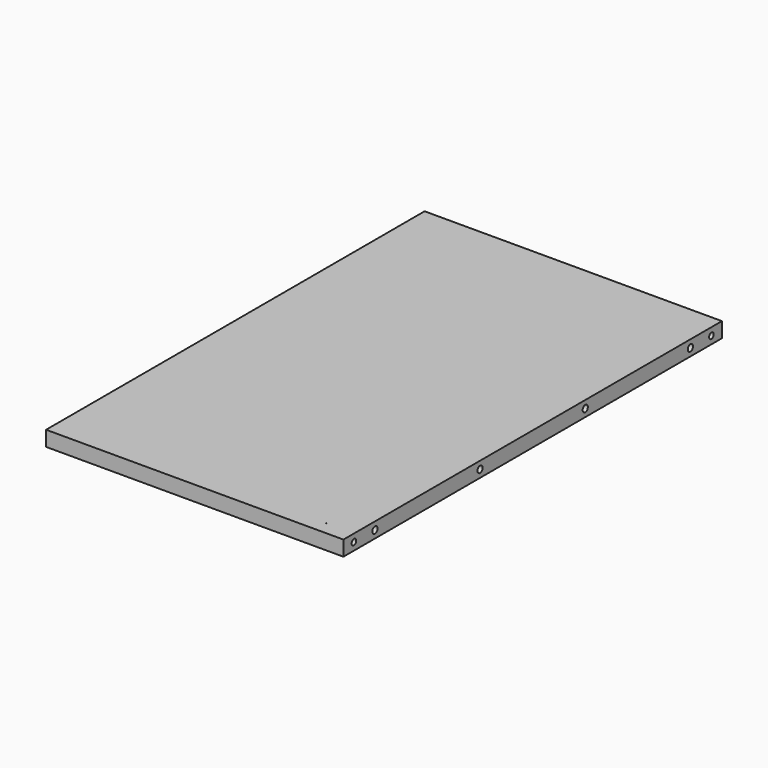
from build123d import *

# Parameters (mm, degrees)
F0_W     = 181
F0_H     = 288
F1_DEPTH = 18.4
F2_D     = 8
F2_DEPTH = 14
F2_TIP   = 2.4034424761
F3_D     = 15
F3_DEPTH = 14
F3_TIP   = 4.5064546427
F5_D     = 7
F5_DEPTH = 28
F5_TIP   = 2.1030121666
F6_D     = 8
F6_DEPTH = 26
F6_TIP   = 2.4034424761


with BuildPart() as f1:
    # F0 (on Top) → F1 (new body)
    with BuildSketch(Plane.XY):
        with Locations((90.5, 144)):
            Rectangle(F0_W, F0_H)
    extrude(amount=F1_DEPTH)

    # F2
    with Locations(Plane(origin=(0, 0, 0), x_dir=(1, 0, 0), z_dir=(0, 0, -1))):
        with Locations((147.2, -80), (147.2, -112)):
            Hole(F2_D / 2, depth=F2_DEPTH)
            with Locations((0, 0, -(F2_DEPTH + F2_TIP / 2))):  # 118° drill point
                Cone(0, F2_D / 2, F2_TIP, mode=Mode.SUBTRACT)

    # F3
    with Locations(Plane(origin=(0, 0, 0), x_dir=(1, 0, 0), z_dir=(0, 0, -1))):
        with Locations((147.2, -16)):
            Hole(F3_D / 2, depth=F3_DEPTH)
            with Locations((0, 0, -(F3_DEPTH + F3_TIP / 2))):  # 118° drill point
                Cone(0, F3_D / 2, F3_TIP, mode=Mode.SUBTRACT)

    # F5
    with Locations(Plane.YZ.offset(181)):
        with Locations((16, 9.2)):
            Hole(F5_D / 2, depth=F5_DEPTH)
            with Locations((0, 0, -(F5_DEPTH + F5_TIP / 2))):  # 118° drill point
                Cone(0, F5_D / 2, F5_TIP, mode=Mode.SUBTRACT)

    # F6
    with Locations(Plane.YZ.offset(181)):
        with Locations((48, 9.2), (208, 9.2)):
            Hole(F6_D / 2, depth=F6_DEPTH)
            with Locations((0, 0, -(F6_DEPTH + F6_TIP / 2))):  # 118° drill point
                Cone(0, F6_D / 2, F6_TIP, mode=Mode.SUBTRACT)

    # F7: F1 across plane


with BuildPart() as f1_1:
    add(f1.part)
    add(f1.part.mirror(Plane.YZ))

    # F8: F1 across face


with BuildPart() as f1_2:
    add(f1_1.part)
    add(f1_1.part.mirror(Plane(origin=(0, 288, 9.2), x_dir=(-1, 0, 0), z_dir=(0, 1, 0))))


solid = f1_2.part
